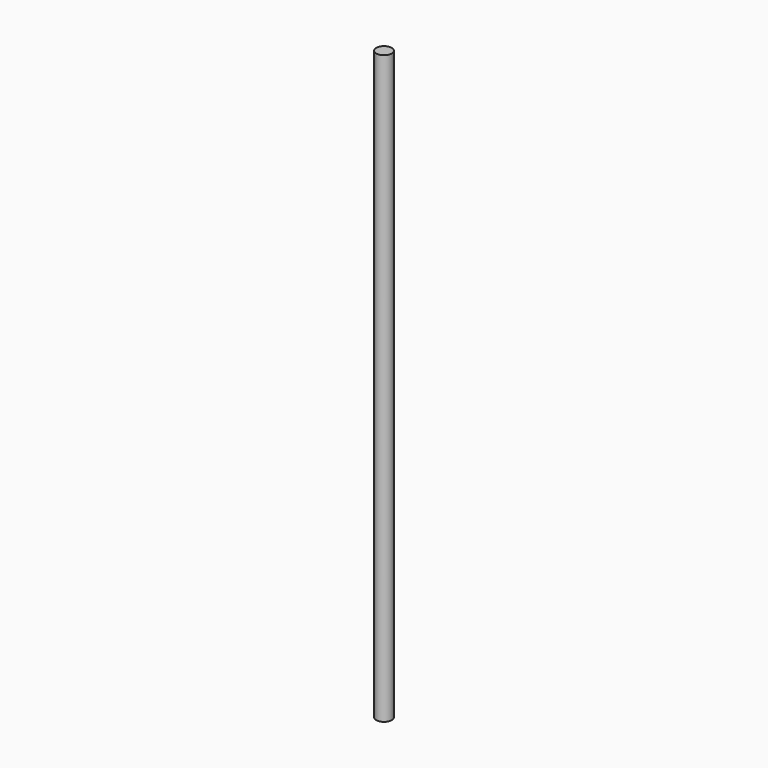
from build123d import *

# Parameters (mm, degrees)
SKETCH_R  = 1.5
PAD_DEPTH = 113.85


with BuildPart() as part:
    # Sketch → Pad (new body)
    with BuildSketch(Plane.XY):
        Circle(SKETCH_R)
    extrude(amount=PAD_DEPTH)


solid = part.part
